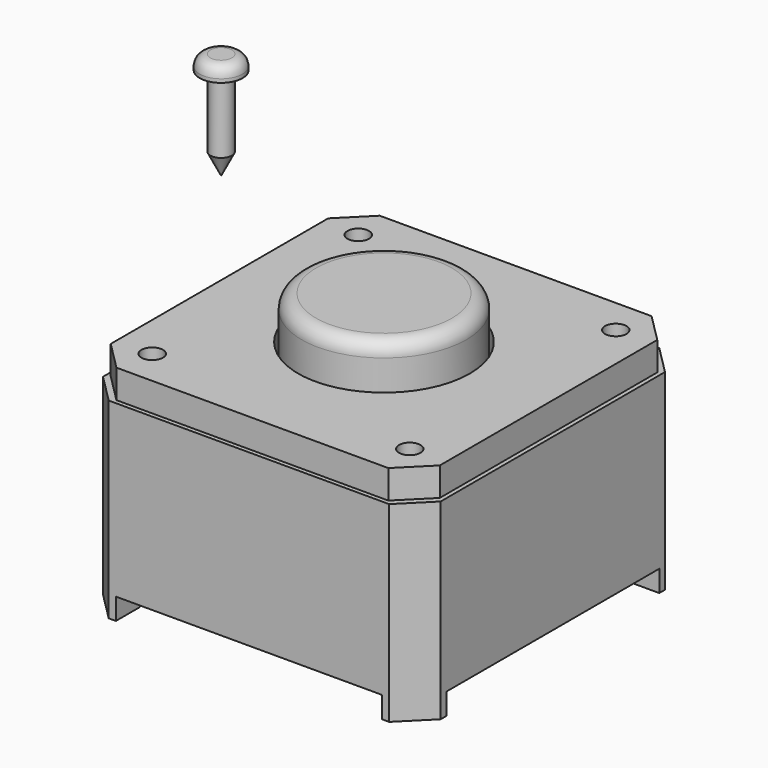
from build123d import *

# Parameters (mm, degrees)
F0_W      = 5.9944
F0_H      = 5.9944
F0_W_2    = 3.81
F0_H_2    = 3.81
F1_DEPTH  = 3.4036
F2_DEPTH  = 1.27
F3_W      = 4.7244
F3_H      = 0.381
F4_DEPTH  = 5.9944
F5_SIZE   = 0.508
F6_W      = 5.842
F6_H      = 5.842
F6_R      = 1.524
F7_DEPTH  = 0.508
F8_SIZE   = 0.508
F9_W      = 4.7244
F9_H      = 0.381
F10_DEPTH = 5.9944
F11_R     = 0.1905
F12_DEPTH = 25.4
F14_W     = 3.683
F14_H     = 3.683
F14_R     = 1.4605
F15_DEPTH = 0.762
F16_DEPTH = 2.032
F17_R     = 0.254


with BuildPart() as f1:
    # F0 (on Top) → F1 (new body)
    with BuildSketch(Plane.XY):
        Rectangle(F0_W, F0_H)
        Rectangle(F0_W_2, F0_H_2, mode=Mode.SUBTRACT)
    extrude(amount=F1_DEPTH)

    # F0 (on Top) → F2 (join)
    with BuildSketch(Plane.XY):
        Rectangle(F0_W_2, F0_H_2)
    extrude(amount=F2_DEPTH)

    # F3 (on face) → F4 (cut, through all)
    with BuildSketch(Plane.XZ.offset(2.9972)):
        with Locations((0, 0.1905)):
            Rectangle(F3_W, F3_H)
    extrude(amount=-F4_DEPTH, mode=Mode.SUBTRACT)

    # F5
    f5_edges = [f1.edges().sort_by_distance(p)[0] for p in [
        (-2.9972, -2.9972, 1.7018),
        (-2.9972, 2.9972, 1.7018),
        (2.9972, -2.9972, 1.7018),
        (2.9972, 2.9972, 1.7018),
    ]]
    chamfer(f5_edges, length=F5_SIZE)

    # F9 (on face) → F10 (cut, through all)
    with BuildSketch(Plane(origin=(-2.9972, 0, 0), x_dir=(0, -1, 0), z_dir=(-1, 0, 0))):
        with Locations((0, 0.1905)):
            Rectangle(F9_W, F9_H)
    extrude(amount=-F10_DEPTH, mode=Mode.SUBTRACT)


with BuildPart() as f7:
    # F6 (on face) → F7 (new body)
    with BuildSketch(Plane.XY.offset(3.4036)):
        Rectangle(F6_W, F6_H)
        Circle(F6_R, mode=Mode.SUBTRACT)
    extrude(amount=F7_DEPTH)

    # F8
    f8_edges = [f7.edges().sort_by_distance(p)[0] for p in [
        (-2.921, -2.921, 3.6576),
        (-2.921, 2.921, 3.6576),
        (2.921, 2.921, 3.6576),
        (2.921, -2.921, 3.6576),
    ]]
    chamfer(f8_edges, length=F8_SIZE)


with BuildPart() as f12_tool:
    # F11 (on face) → F12 (new body)
    with BuildSketch(Plane.XY.offset(3.9116)):
        with Locations((-2.286, 2.286)):
            Circle(F11_R)
        with Locations((-2.286, -2.286)):
            Circle(F11_R)
        with Locations((2.286, 2.286)):
            Circle(F11_R)
        with Locations((2.286, -2.286)):
            Circle(F11_R)
    extrude(amount=-F12_DEPTH)


with BuildPart() as f1_1:
    add(f1.part)

    # F12: cut by f12_tool
    add(f12_tool.part, mode=Mode.SUBTRACT)


with BuildPart() as f7_1:
    add(f7.part)

    # F12: cut by f12_tool
    add(f12_tool.part, mode=Mode.SUBTRACT)


with BuildPart() as f15:
    # F14 (on offset) → F15 (new body, through all)
    with BuildSketch(Plane.XY.offset(2.6416)):
        Rectangle(F14_W, F14_H)
        Circle(F14_R, mode=Mode.SUBTRACT)
    extrude(amount=F15_DEPTH)

    # F14 (on offset) → F16 (join)
    with BuildSketch(Plane.XY.offset(2.6416)):
        Circle(F14_R)
    extrude(amount=F16_DEPTH)

    # F17
    f17_edges = [f15.edges().sort_by_distance(p)[0] for p in [
        (-1.4605, 0, 4.6736),
    ]]
    fillet(f17_edges, radius=F17_R)


with BuildPart() as f19:
    # F18 (on Front) → F19 (revolve)
    with BuildSketch(Plane.XZ):
        with BuildLine():
            Line((-3.0817589723, 5.9448182583), (-2.8912589723, 5.5663371459))
            Line((-2.8912589723, 5.5663371459), (-2.8912589723, 7.4713371459))
            Line((-2.8912589723, 7.4713371459), (-3.0817589723, 7.4713371459))
            ThreePointArc((-3.0817589723, 7.4713371459), (-3.2164628141, 7.4155409877), (-3.2722589723, 7.2808371459))
            Line((-3.2722589723, 7.2808371459), (-3.2722589723, 7.2173371459))
            Line((-3.2722589723, 7.2173371459), (-3.0817589723, 7.2173371459))
            Line((-3.0817589723, 7.2173371459), (-3.0817589723, 5.9448182583))
        make_face()
    revolve(axis=Axis((-2.8912589723, 0, 7.2813290171), (0, 0, -1)))


solid = Compound([f1_1.part, f7_1.part, f15.part, f19.part])
